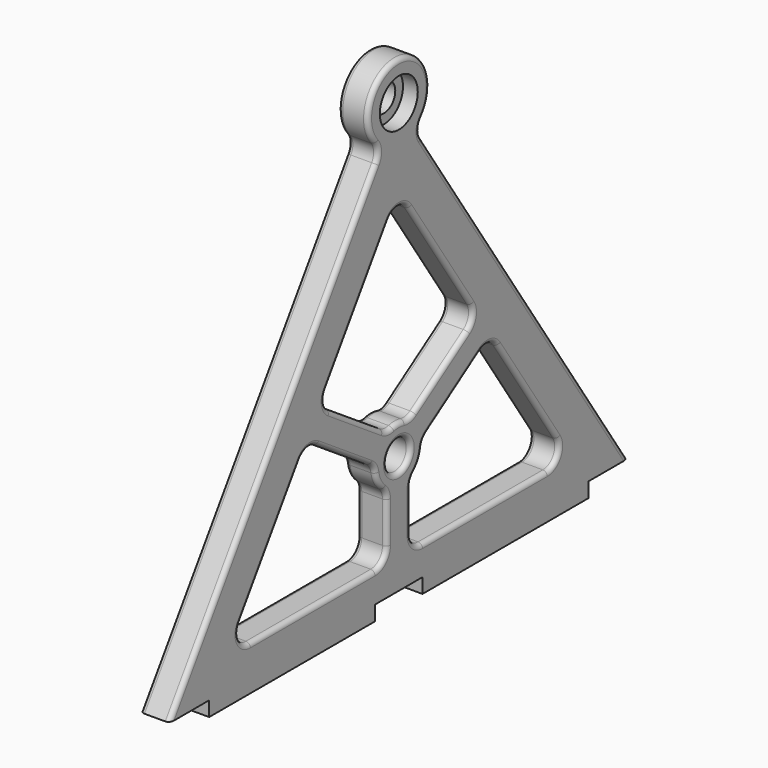
from build123d import *

# Parameters (mm, degrees)
F1_DEPTH = 10
F2_R     = 8
F3_DEPTH = 5
F4_R     = 4.75
F5_DEPTH = 5.001
F6_W     = 20
F6_H     = 5
F7_DEPTH = 10.001
F8_R     = 5
F9_DEPTH = 10
F10_R    = 5
F11_R    = 1.5


with BuildPart() as f1:
    # F0 (on Right) → F1 (new body)
    with BuildSketch(Plane.YZ):
        with BuildLine():
            Line((-7.2111025509, 139.1833461736), (-100, 0))
            Line((-100, 0), (100, 0))
            Line((100, 0), (7.2111025509, 139.1833461736))
            ThreePointArc((7.2111025509, 139.1833461736), (0, 163), (-7.2111025509, 139.1833461736))
        make_face()
        Polygon((71.9722436227, 15), (-71.9722436227, 15), (0, 122.958365434), align=None, mode=Mode.SUBTRACT)
    extrude(amount=F1_DEPTH)

    # F2 (on face) → F3 (cut)
    with BuildSketch(Plane.YZ.offset(10)):
        with Locations((0, 150)):
            Circle(F2_R)
    extrude(amount=-F3_DEPTH, mode=Mode.SUBTRACT)

    # F4 (on face) → F5 (cut, through all)
    with BuildSketch(Plane.YZ.offset(5)):
        with Locations((0, 150)):
            Circle(F4_R)
    extrude(amount=-F5_DEPTH, mode=Mode.SUBTRACT)

    # F6 (on face) → F7 (cut, through all)
    with BuildSketch(Plane.YZ.offset(10)):
        with Locations((0, 2.5)):
            Rectangle(F6_W, F6_H)
        with Locations((90, 2.5)):
            Rectangle(F6_W, F6_H)
        with Locations((-90, 2.5)):
            Rectangle(F6_W, F6_H)
    extrude(amount=-F7_DEPTH, mode=Mode.SUBTRACT)

    # F8 (on Right) → F9 (join)
    with BuildSketch(Plane.YZ):
        with BuildLine():
            Line((33.2126208302, 73.1394341887), (4.4322659401, 53.9525309286))
            ThreePointArc((4.4322659401, 53.9525309286), (0, 54.9884348428), (-4.4322659401, 53.9525309286))
            Line((-4.4322659401, 53.9525309286), (-33.2126208302, 73.1394341887))
            Line((-33.2126208302, 73.1394341887), (-38.7596227925, 64.8189312453))
            Line((-38.7596227925, 64.8189312453), (-9.9792679024, 45.6320279852))
            ThreePointArc((-9.9792679024, 45.6320279852), (-8.8167459877, 40.2698555875), (-5, 36.3281808049))
            Line((-5, 36.3281808049), (-5, 15))
            Line((-5, 15), (5, 15))
            Line((5, 15), (5, 36.3281808049))
            ThreePointArc((5, 36.3281808049), (8.8167459877, 40.2698555875), (9.9792679024, 45.6320279852))
            Line((9.9792679024, 45.6320279852), (38.7596227925, 64.8189312453))
            Line((38.7596227925, 64.8189312453), (33.2126208302, 73.1394341887))
        make_face()
        with Locations((0, 44.9884348428)):
            Circle(F8_R, mode=Mode.SUBTRACT)
    extrude(amount=F9_DEPTH)

    # F10
    f10_edges = [f1.edges().sort_by_distance(p)[0] for p in [
        (5, -7.211103, 139.183346),
        (5, 7.211103, 139.183346),
        (5, 71.972244, 15),
        (5, 0, 122.958365),
        (5, -71.972244, 15),
        (5, -33.212621, 73.139434),
        (5, -38.759623, 64.818931),
        (5, 38.759623, 64.818931),
        (5, -9.979268, 45.632028),
        (5, -5, 36.328181),
        (5, 5, 36.328181),
        (5, 9.979268, 45.632028),
        (5, 4.432266, 53.952531),
        (5, -4.432266, 53.952531),
        (5, 33.212621, 73.139434),
        (5, -5, 15),
        (5, 5, 15),
    ]]
    fillet(f10_edges, radius=F10_R)

    # F11
    f11_edges = [f1.edges().sort_by_distance(p)[0] for p in [
        (0, 17.299686, 97.008837),
        (5, 4.160251, 116.717988),
        (5, 30.43912, 77.299686),
        (10, 17.299686, 97.008837),
        (0, 54.161517, 41.71609),
        (5, 41.533124, 60.65868),
        (5, 66.78991, 22.773501),
        (10, 54.161517, 41.71609),
        (0, -23.337739, 54.537675),
        (5, -34.599371, 62.04543),
        (5, -12.076106, 47.02992),
        (10, -23.337739, 54.537675),
        (5, 5, 44.988435),
        (0, -5, 44.988435),
        (10, -5, 44.988435),
        (0, -53.129165, 70.306253),
        (10, -53.129165, 70.306253),
        (0, -4.75, 150),
    ]]
    fillet(f11_edges, radius=F11_R)


solid = f1.part
